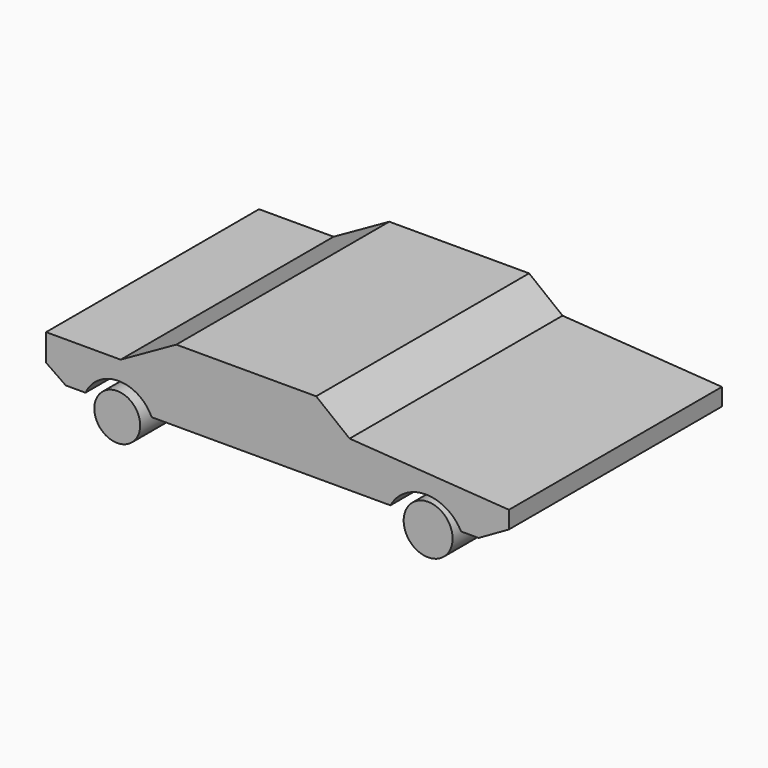
from build123d import *

# Parameters (mm, degrees)
F0_W     = 254
F0_H     = 63.5
F1_DEPTH = 127
F3_DEPTH = 127
F5_DEPTH = 127
F7_DEPTH = 127
F8_R     = 10.938676
F8_R_2   = 11.669206
F9_DEPTH = 127


with BuildPart() as f1:
    # F0 (on Front) → F1 (new body)
    with BuildSketch(Plane.XZ):
        with Locations((-88.44309, -10.857639)):
            Rectangle(F0_W, F0_H)
    extrude(amount=F1_DEPTH)

    # F2 (on face) → F3 (cut)
    with BuildSketch(Plane.XZ.offset(127)):
        Polygon((-37.467527, -5.688028), (38.55691, -10.857639), (38.55691, 20.892361), (-215.44309, 20.892361), (-215.44309, -42.607639), (38.55691, -42.607639), (38.55691, -27.392207), (-182.252563, -27.392207), (-182.252563, -8.052954), (-146.692563, -8.052954), (-120.131686, 6.898642), (-53.419898, 6.898642), align=None)
    extrude(amount=-F3_DEPTH, mode=Mode.SUBTRACT)

    # F4 (on face) → F5 (cut)
    with BuildSketch(Plane.XZ.offset(127)):
        with BuildLine():
            Line((-163.463995, -27.392207), (-131.893307, -27.392207))
            ThreePointArc((-131.893307, -27.392207), (-147.678651, -17.29131), (-163.463995, -27.392207))
        make_face()
        with BuildLine():
            ThreePointArc((15.746029, -27.392207), (-1.122616, -17.294191), (-17.991262, -27.392207))
            Line((-17.991262, -27.392207), (15.746029, -27.392207))
        make_face()
    extrude(amount=-F5_DEPTH, mode=Mode.SUBTRACT)

    # F6 (on face) → F7 (cut)
    with BuildSketch(Plane.XZ.offset(127)):
        Polygon((-182.252563, -27.392207), (-172.858279, -27.392207), (-182.252563, -20.892361), align=None)
        Polygon((38.55691, -19.124923), (24.102971, -27.392207), (38.55691, -27.392207), align=None)
    extrude(amount=-F7_DEPTH, mode=Mode.SUBTRACT)


with BuildPart() as f9:
    # F8 (on Front) → F9 (new body)
    with BuildSketch(Plane.XZ):
        with Locations((-148.297682, -32.653984)):
            Circle(F8_R)
        with Locations((0, -31.725436)):
            Circle(F8_R_2)
    extrude(amount=F9_DEPTH)


solid = Compound([f1.part, f9.part])
